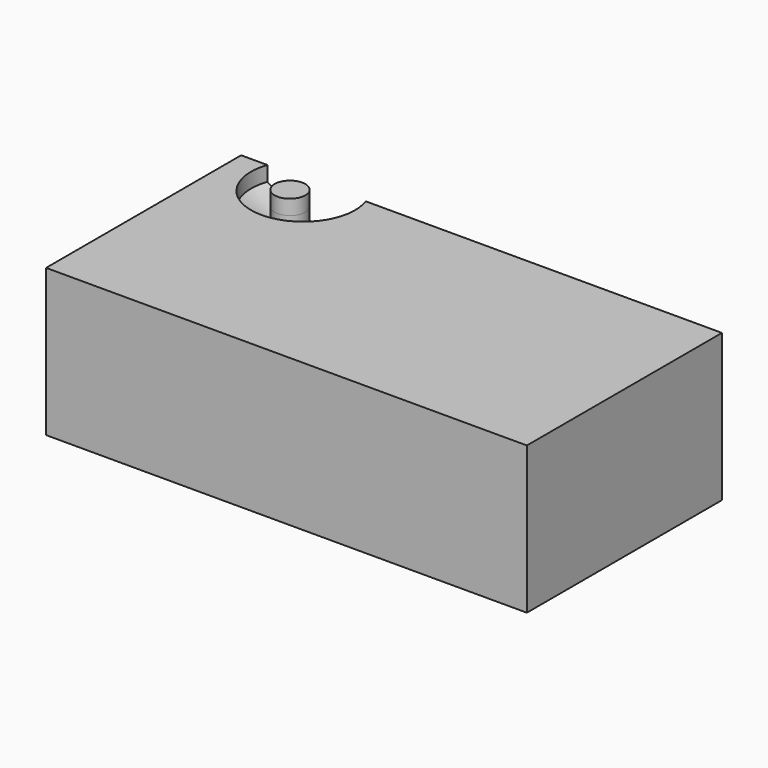
from build123d import *

# Parameters (mm, degrees)
F0_W     = 82.1032859385
F0_H     = 41.6331100278
F1_DEPTH = 25.146
F3_D     = 17.78
F3_DEPTH = 2.54
F3_TIP   = 5.3416509032
F2_R     = 2.624003914
F4_DEPTH = 1.27
F5_DEPTH = 25.4


with BuildPart() as f1:
    # F0 (on Top) → F1 (new body)
    with BuildSketch(Plane.XY):
        with Locations((0.5814675242, 25.4682993982)):
            Rectangle(F0_W, F0_H)
    extrude(amount=F1_DEPTH)

    # F3
    with Locations(Plane.XY.offset(25.146)):
        with Locations((-27.5905281305, 43.4041881504)):
            Hole(F3_D / 2, depth=F3_DEPTH)
            with Locations((0, 0, -(F3_DEPTH + F3_TIP / 2))):  # 118° drill point
                Cone(0, F3_D / 2, F3_TIP, mode=Mode.SUBTRACT)


with BuildPart() as f4:
    # F2 (on face) → F4 (new body, symmetric)
    with BuildSketch(Plane.XY.offset(25.146)):
        with Locations((-27.6596769691, 40.6982563436)):
            Circle(F2_R)
    extrude(amount=F4_DEPTH, both=True)


with BuildPart() as f5:
    # F5 (new): a face of the model
    f5_faces = [f4.part.faces().sort_by_distance(p)[0] for p in [
        (-27.6596769691, 40.6982563436, 23.876),
    ]]
    extrude(f5_faces, amount=F5_DEPTH)


solid = Compound([f1.part, f4.part, f5.part])
